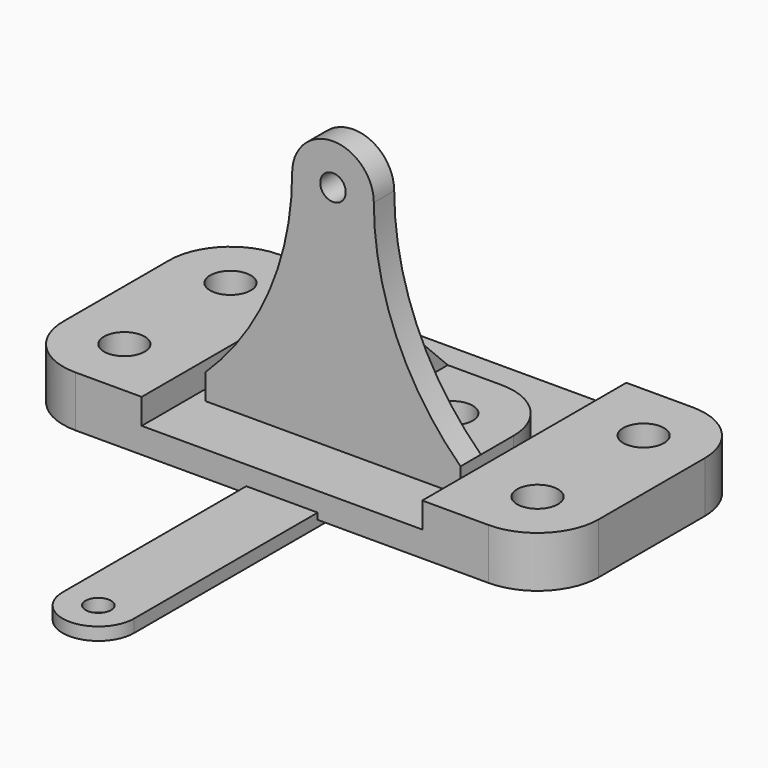
from build123d import *

# Parameters (mm, degrees)
SKETCH_R     = 4
PAD_DEPTH    = 10
SKETCH001_W  = 55
SKETCH001_H  = 50
POCKET_DEPTH = 5
SKETCH002_R  = 4
PAD001_DEPTH = 10
SKETCH004_R  = 2.5
PAD002_DEPTH = 5
PAD004_DEPTH = 2.5
SKETCH009_R  = 2.5
PAD005_DEPTH = 1.25


with BuildPart() as base:
    # Sketch → Pad (new body)
    with BuildSketch(Plane.XY):
        with BuildLine():
            Line((-52.5, 13), (-52.5, -13))
            ThreePointArc((-52.5, -13), (-48.985281, -21.485281), (-40.5, -25))
            Line((-40.5, -25), (40.5, -25))
            ThreePointArc((40.5, -25), (48.985281, -21.485281), (52.5, -13))
            Line((52.5, -13), (52.5, 13))
            ThreePointArc((52.5, 13), (48.985281, 21.485281), (40.5, 25))
            Line((40.5, 25), (-40.5, 25))
            ThreePointArc((-40.5, 25), (-48.985281, 21.485281), (-52.5, 13))
        make_face()
        with Locations((-40.5, 13)):
            Circle(SKETCH_R, mode=Mode.SUBTRACT)
        with Locations((40.5, 13)):
            Circle(SKETCH_R, mode=Mode.SUBTRACT)
        with Locations((40.5, -13)):
            Circle(SKETCH_R, mode=Mode.SUBTRACT)
        with Locations((-40.5, -13)):
            Circle(SKETCH_R, mode=Mode.SUBTRACT)
    extrude(amount=PAD_DEPTH)

    # Sketch001 (on Face14 of Pad) → Pocket (cut)
    with BuildSketch(Plane.XY.offset(10)):
        Rectangle(SKETCH001_W, SKETCH001_H)
    extrude(amount=-POCKET_DEPTH, mode=Mode.SUBTRACT)


with BuildPart() as bracket:
    # Sketch002 → Pad001 (new body)
    with BuildSketch(Plane.XY):
        with BuildLine():
            Line((-25, -12.5), (25, -12.5))
            Line((25, -12.5), (25, 0.5))
            ThreePointArc((25, 0.5), (21.485281, 8.985281), (13, 12.5))
            Line((13, 12.5), (-13, 12.5))
            ThreePointArc((-13, 12.5), (-21.485281, 8.985281), (-25, 0.5))
            Line((-25, 0.5), (-25, -12.5))
        make_face()
        with Locations((13, 0.5)):
            Circle(SKETCH002_R, mode=Mode.SUBTRACT)
        with Locations((-13, 0.5)):
            Circle(SKETCH002_R, mode=Mode.SUBTRACT)
    extrude(amount=PAD001_DEPTH)

    # Sketch004 (on Face1 of Pad001) → Pad002 (join)
    with BuildSketch(Plane.XZ.offset(12.5)):
        with BuildLine():
            ThreePointArc((-25, 10), (-12.42632, 28.268686), (-8, 50))
            ThreePointArc((8, 50), (0, 58), (-8, 50))
            ThreePointArc((8, 50), (12.42632, 28.268686), (25, 10))
            Line((-25, 10), (25, 10))
        make_face()
        with Locations((0, 50)):
            Circle(SKETCH004_R, mode=Mode.SUBTRACT)
    extrude(amount=-PAD002_DEPTH)

    # Sketch008 → Pad004 (join, symmetric)
    with BuildSketch(Plane.YZ):
        Polygon((-7.5, 10), (-7.5, 30), (12.5, 10), align=None)
    extrude(amount=PAD004_DEPTH, both=True)


with BuildPart() as links:
    # Sketch009 → Pad005 (new body, symmetric)
    with BuildSketch(Plane.XY):
        with BuildLine():
            ThreePointArc((7, 0), (0, 7), (-7, 0))
            Line((-7, 0), (-7, -70))
            ThreePointArc((-7, -70), (0, -77), (7, -70))
            Line((7, 0), (7, -70))
        make_face()
        Circle(SKETCH009_R, mode=Mode.SUBTRACT)
        with Locations((0, -70)):
            Circle(SKETCH009_R, mode=Mode.SUBTRACT)
    extrude(amount=PAD005_DEPTH, both=True)


solid = Compound([base.part, bracket.part, links.part])
